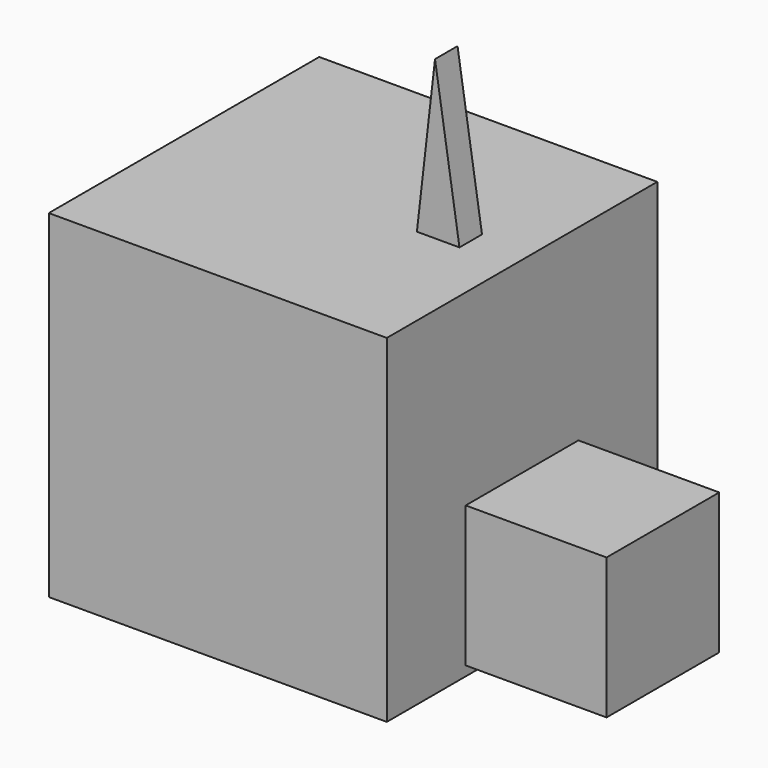
from build123d import *

# Parameters (mm, degrees)
F1_DEPTH = 38.1
F0_W     = 31.75
F0_H     = 31.75
F2_DEPTH = 15.875
F3_DEPTH = 3.175


with BuildPart() as f1:
    # F0 (on Front) → F1 (new body, symmetric)
    with BuildSketch(Plane.XZ):
        Polygon((-38.1, -38.1), (38.1, -38.1), (38.1, -35.922859), (38.1, -4.172859), (38.1, 38.1), (26.53393, 38.1), (16.940894, 38.1), (-38.1, 38.1), align=None)
    extrude(amount=F1_DEPTH, both=True)

    # F0 (on Front) → F2 (join, symmetric)
    with BuildSketch(Plane.XZ):
        with Locations((53.975, -20.047859)):
            Rectangle(F0_W, F0_H)
    extrude(amount=F2_DEPTH, both=True)

    # F0 (on Front) → F3 (join, symmetric)
    with BuildSketch(Plane.XZ):
        Polygon((21.023035, 73.682681), (16.940894, 38.1), (26.53393, 38.1), align=None)
    extrude(amount=F3_DEPTH, both=True)


solid = f1.part
